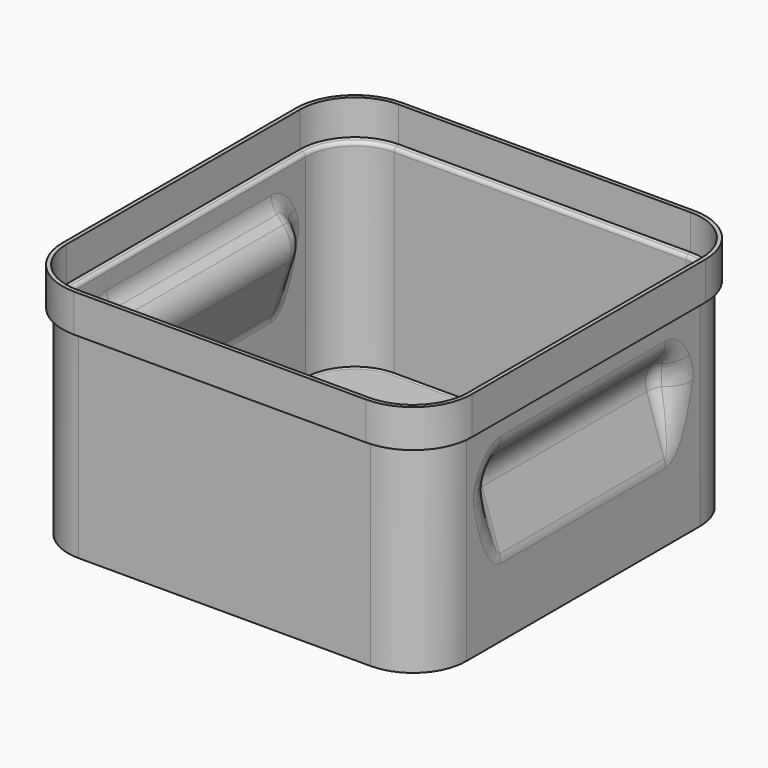
from build123d import *

# Parameters (mm, degrees)
PAD_DEPTH        = 60
PAD001_DEPTH     = 12
POCKET_DEPTH     = 35
CHAMFER_SIZE2    = 0.6
CHAMFER_SIZE     = 1.68
CHAMFER001_SIZE2 = 1.7
CHAMFER001_SIZE  = 0.6
FILLET_R         = 4
FILLET001_R      = 8
THICKNESS_T      = -1.2


with BuildPart() as part:
    # Sketch → Pad (new body)
    with BuildSketch(Plane.XY):
        with BuildLine():
            Line((-60, -44), (-60, 44))
            ThreePointArc((-44, 60), (-55.313708, 55.313708), (-60, 44))
            Line((-44, 60), (44, 60))
            ThreePointArc((60, 44), (55.313708, 55.313708), (44, 60))
            Line((60, 44), (60, -44))
            ThreePointArc((44, -60), (55.313708, -55.313708), (60, -44))
            Line((44, -60), (-44, -60))
            ThreePointArc((-60, -44), (-55.313708, -55.313708), (-44, -60))
        make_face()
    extrude(amount=PAD_DEPTH)

    # Sketch001 → Pad001 (join)
    with BuildSketch(Plane.XY.offset(60)):
        with BuildLine():
            ThreePointArc((-44, 61.7), (-56.51579, 56.51579), (-61.7, 44))
            Line((-61.7, 44), (-61.7, -44))
            ThreePointArc((-61.7, -44), (-56.51579, -56.51579), (-44, -61.7))
            Line((-44, -61.7), (44.000005, -61.7))
            ThreePointArc((44.000005, -61.7), (56.515792, -56.515788), (61.7, -44))
            Line((61.7, -44), (61.7, 44))
            ThreePointArc((61.7, 44), (56.51579, 56.51579), (44, 61.7))
            Line((44, 61.7), (-44, 61.7))
        make_face()
    extrude(amount=PAD001_DEPTH)

    # Sketch002 → Pocket (cut, symmetric)
    with BuildSketch(Plane.XZ):
        with BuildLine():
            Line((61.7, 53.888041), (56.054841, 47.618457))
            ThreePointArc((56.054841, 47.618457), (54.174819, 43.928706), (54.391548, 39.793277))
            Line((54.391548, 39.793277), (61.7, 17.300174))
            Line((61.7, 17.300174), (61.7, 53.888041))
        make_face()
    pocket = extrude(amount=POCKET_DEPTH, both=True, mode=Mode.SUBTRACT)

    # Mirrored: Pocket across Sketch002 V_Axis
    add(pocket.mirror(Plane(origin=(0, 0, 0), x_dir=(0, -1, 0), z_dir=(1, 0, 0))), mode=Mode.SUBTRACT)

    # Chamfer
    chamfer_edges = [part.edges().sort_by_distance(p)[0] for p in [
        (2e-06, -61.7, 60),
    ]]
    chamfer_side = part.faces().sort_by_distance((-56.39239, 56.39239, 60))[0]
    chamfer(chamfer_edges, length=CHAMFER_SIZE, length2=CHAMFER_SIZE2, reference=chamfer_side)

    # Chamfer001
    chamfer001_edges = [part.edges().sort_by_distance(p)[0] for p in [
        (0, -60, 0),
    ]]
    chamfer001_side = part.faces().sort_by_distance((0, -60, 30))[0]
    chamfer(chamfer001_edges, length=CHAMFER001_SIZE, length2=CHAMFER001_SIZE2, reference=chamfer001_side)

    # Fillet
    fillet_edges = [part.edges().sort_by_distance(p)[0] for p in [
        (-54.174819, 35, 43.928706),
        (-54.174819, -35, 43.928706),
        (54.174819, 35, 43.928706),
        (54.174819, -35, 43.928706),
    ]]
    fillet(fillet_edges, radius=FILLET_R)

    # Fillet001
    fillet001_edges = [part.edges().sort_by_distance(p)[0] for p in [
        (-60, 34.347644, 28.391602),
        (-60, 35, 40.749301),
        (-60, 34.083702, 49.829574),
        (-60, 0, 52),
        (-60, -34.083702, 49.829574),
        (-60, -35, 40.749301),
        (-60, -34.347644, 28.391602),
        (-60, 0, 22.532236),
        (60, -34.083702, 49.829574),
        (60, 0, 52),
        (60, 34.083702, 49.829574),
        (60, 35, 40.749301),
        (60, 34.347644, 28.391602),
        (60, 0, 22.532236),
        (60, -34.347644, 28.391602),
        (60, -35, 40.749301),
    ]]
    fillet(fillet001_edges, radius=FILLET001_R)

    # Thickness
    thickness_openings = [part.faces().sort_by_distance(p)[0] for p in [
        (0, 0, 72),
    ]]
    offset(amount=THICKNESS_T, openings=thickness_openings)


solid = part.part
